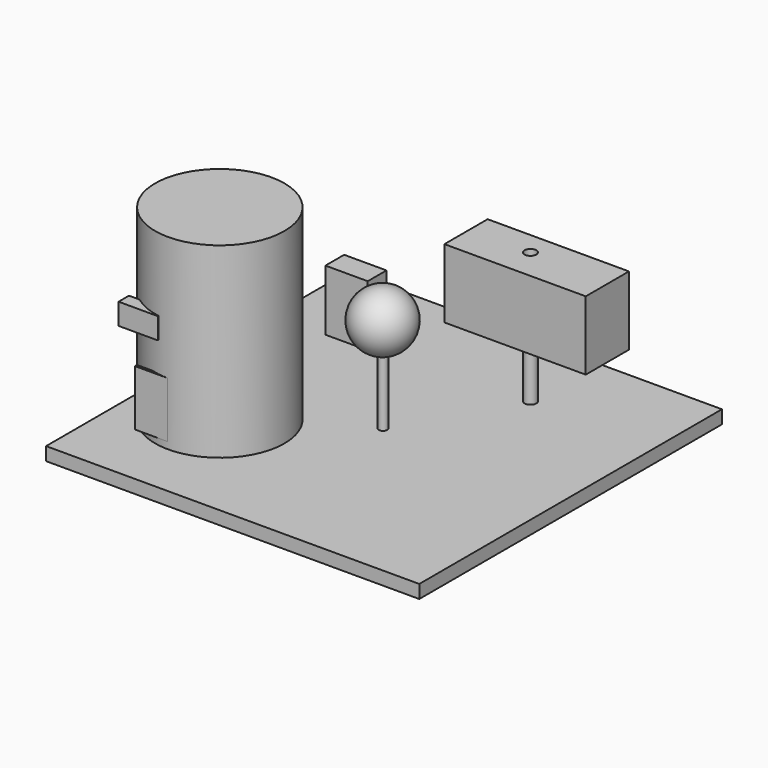
from build123d import *

# Parameters (mm, degrees)
F0_W          = 152.5982543826
F0_H          = 5.4305433296
F1_DEPTH      = 78.74
F1_DEPTH_BACK = 75.946
F2_R          = 1.7186274254
F3_DEPTH      = 39.37
F6_R          = 2.3924596608
F7_DEPTH      = 25.4
F8_W          = 57.7885117382
F8_H          = 22.0842137933
F8_R          = 2.3924596608
F9_DEPTH      = 28.194
F10_W         = 17.2992944717
F10_H         = 9.5698237419
F11_DEPTH     = 24.892
F12_R         = 26.4300234809
F13_DEPTH     = 76.454
F16_W         = 13.3196115494
F16_H         = 22.8336232249
F17_DEPTH     = 1.016
F18_W         = 16.0787776113
F18_H         = 8.7167434394
F19_DEPTH     = 5.334


with BuildPart() as f1:
    # F0 (on Front) → F1 (new body, two sides)
    with BuildSketch(Plane.XZ) as f1_sk:
        with Locations((-0.0905133784, -2.7152716648)):
            Rectangle(F0_W, F0_H)
    extrude(amount=F1_DEPTH)
    extrude(f1_sk.sketch, amount=-F1_DEPTH_BACK)

    # F6 (on face) → F7 (join)
    with BuildSketch(Plane.XY):
        with Locations((25.0302739441, 42.0702621341)):
            Circle(F6_R)
    extrude(amount=F7_DEPTH)

    # F10 (on face) → F11 (join)
    with BuildSketch(Plane.XY):
        with Locations((-46.1912974715, 41.8862216175)):
            Rectangle(F10_W, F10_H)
    extrude(amount=F11_DEPTH)

    # F12 (on face) → F13 (join)
    with BuildSketch(Plane.XY):
        with Locations((-44.5349812508, -29.7690033913)):
            Circle(F12_R)
    extrude(amount=F13_DEPTH)


with BuildPart() as f3:
    # F2 (on face) → F3 (new body)
    with BuildSketch(Plane.XY):
        with Locations((0, -2.0061403047)):
            Circle(F2_R)
    extrude(amount=F3_DEPTH)


with BuildPart() as f5:
    # F4 (on Right) → F5 (revolve)
    with BuildSketch(Plane.YZ):
        with BuildLine():
            Line((-2.2519293707, 39.0999093652), (-2.2519293707, 27.1946717426))
            ThreePointArc((-2.2519293707, 27.1946717426), (9.6533082519, 39.0999093652), (-2.2519293707, 51.0051469878))
            Line((-2.2519293707, 51.0051469878), (-2.2519293707, 39.0999093652))
        make_face()
    revolve(axis=Axis((0, -2.2519293707, 45.0525281765), (0, 0, 1)))


with BuildPart() as f9:
    # F8 (on face) → F9 (new body)
    with BuildSketch(Plane.XY.offset(25.4)):
        with Locations((28.8942558691, 40.4139459133)):
            Rectangle(F8_W, F8_H)
        with Locations((25.0302739441, 42.0702621341)):
            Circle(F8_R, mode=Mode.SUBTRACT)
    extrude(amount=F9_DEPTH)


with BuildPart() as f17:
    # F16 (on plane+point) → F17 (new body)
    with BuildSketch(Plane.XZ.offset(56.1978533804)):
        with Locations((-51.4734014869, 14.1701492248)):
            Rectangle(F16_W, F16_H)
    extrude(amount=-F17_DEPTH)


with BuildPart() as f19:
    # F18 (on plane+point) → F19 (new body)
    with BuildSketch(Plane.XZ.offset(56.1978533804)):
        with Locations((-56.7487441003, 42.2314461321)):
            Rectangle(F18_W, F18_H)
    extrude(amount=-F19_DEPTH)


solid = Compound([f1.part, f3.part, f5.part, f9.part, f17.part, f19.part])
